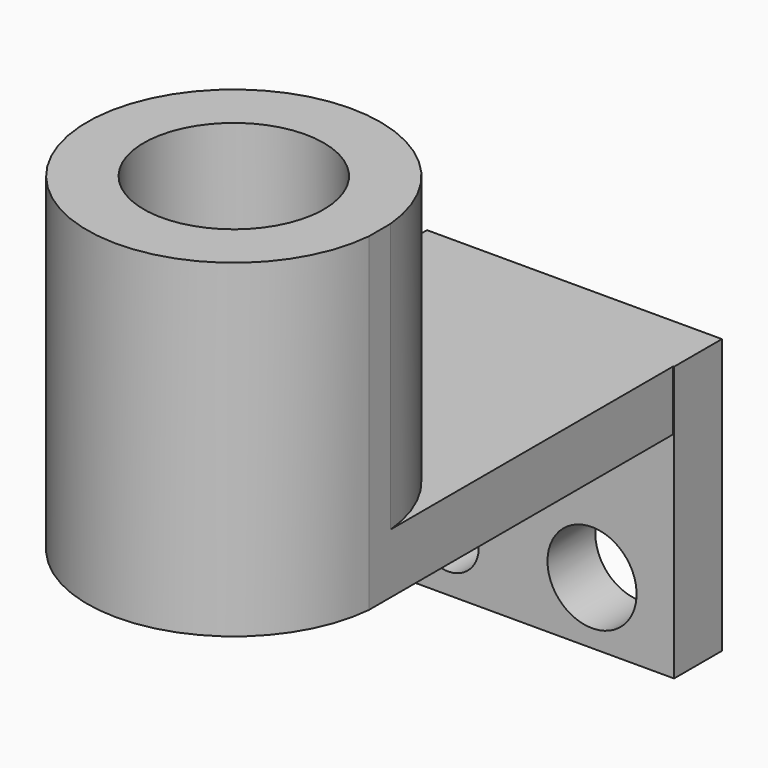
from build123d import *

# Parameters (mm, degrees)
F6_DEPTH  = 25.4
F1_DEPTH  = 254
F7_DEPTH  = 50.8
F8_W      = 249.756782063
F8_H      = 50.8
F2_DEPTH  = 50.8
F9_R      = 26.1205140938
F10_DEPTH = 25.4
F11_DEPTH = 25.4
F3_R      = 37.8459994155
F4_DEPTH  = 558.8


with BuildPart() as f6:
    # F0 (on Top) → F6 (new body)
    with BuildSketch(Plane.XY):
        with BuildLine():
            ThreePointArc((-123.9480513415, 27.3783540638), (0, -85.553869405), (123.9480513415, 27.3783540638))
            Line((123.9480513415, 27.3783540638), (75.5778377526, 27.3783540638))
            ThreePointArc((75.5778377526, 27.3783540638), (0, -37.5243171246), (-75.5778377526, 27.3783540638))
            Line((-75.5778377526, 27.3783540638), (-123.9480513415, 27.3783540638))
        make_face()
        with BuildLine():
            Line((75.5778377526, 27.3783540638), (123.9480513415, 27.3783540638))
            Line((123.9480513415, 27.3783540638), (123.9480513415, 50.4845345108))
            ThreePointArc((123.9480513415, 50.4845345108), (-11.5530902235, 162.8794956288), (-123.9480513415, 27.3783540638))
            Line((-123.9480513415, 27.3783540638), (-75.5778377526, 27.3783540638))
            ThreePointArc((-75.5778377526, 27.3783540638), (-5.7931995405, 115.1674088457), (76.4557614119, 38.9314442873))
            ThreePointArc((76.4557614119, 38.9314442873), (76.2359645584, 33.1382447468), (75.5778377526, 27.3783540638))
        make_face()
    extrude(amount=F6_DEPTH)

    # F1 (add): a face of the model
    f1_faces = [f6.faces().sort_by_distance(p)[0] for p in [
        (120.4308719295, 38.9314442873, 25.4),
    ]]
    extrude(f1_faces, amount=F1_DEPTH)

    # F0 (on Top) → F7 (join)
    with BuildSketch(Plane.XY):
        with BuildLine():
            Line((-125.8087307215, 27.3783540638), (-123.9480513415, 27.3783540638))
            ThreePointArc((-123.9480513415, 27.3783540638), (-11.5530902235, 162.8794956288), (123.9480513415, 50.4845345108))
            Line((123.9480513415, 50.4845345108), (123.9480513415, 350.5234718323))
            Line((123.9480513415, 350.5234718323), (-125.8087307215, 350.5234718323))
            Line((-125.8087307215, 350.5234718323), (-125.8087307215, 27.3783540638))
        make_face()
    extrude(amount=F7_DEPTH)

    # F8 (on face) → F2 (join)
    with BuildSketch(Plane(origin=(0, 350.5234718323, 0), x_dir=(-1, 0, 0), z_dir=(0, 1, 0))):
        Polygon((-123.9480513415, 0), (-123.9480513415, 50.8), (-124.6591806412, 50.8), (-124.6591806412, -182.3397576809), (125.8087307215, -182.3397576809), (125.8087307215, 0), align=None)
        with Locations((0.93033969, 25.4)):
            Rectangle(F8_W, F8_H)
    extrude(amount=F2_DEPTH)

    # F9 (on face) → F10 (cut)
    with BuildSketch(Plane(origin=(0, 401.3234718323, 0), x_dir=(-1, 0, 0), z_dir=(0, 1, 0))):
        with Locations((67.3247128725, -138.6014223099)):
            Circle(F9_R)
    extrude(amount=-F10_DEPTH, mode=Mode.SUBTRACT)

    # F11 (cut): a face of the model
    f11_faces = [f6.faces().sort_by_distance(p)[0] for p in [
        (-67.3247128725, 375.9234718323, -138.6014223099),
    ]]
    extrude(f11_faces, amount=-F11_DEPTH, mode=Mode.SUBTRACT)

    # F3 (on face) → F4 (cut)
    with BuildSketch(Plane(origin=(0, 401.3234718323, 0), x_dir=(-1, 0, 0), z_dir=(0, 1, 0))):
        with Locations((-54.9964085221, -129.5623332262)):
            Circle(F3_R)
    extrude(amount=-F4_DEPTH, mode=Mode.SUBTRACT)


solid = f6.part
